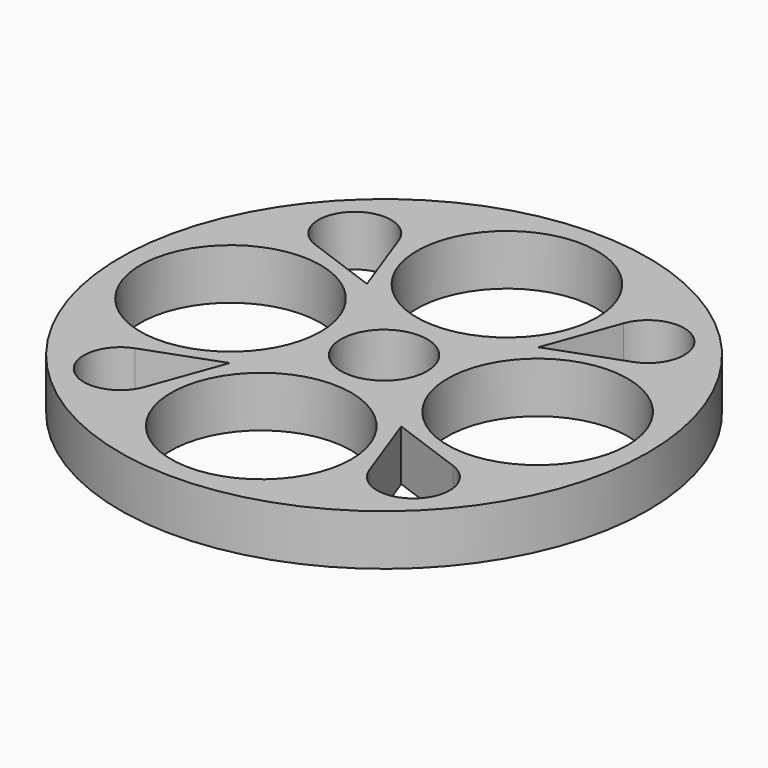
from build123d import *

# Parameters (mm, degrees)
F0_R     = 26
F0_R_2   = 8.875
F0_R_3   = 4.25
F1_DEPTH = 5


with BuildPart() as f1:
    # F0 (on Top) → F1 (new body)
    with BuildSketch(Plane.XY):
        Circle(F0_R)
        with BuildLine():
            ThreePointArc((-11.074626, -15.663465), (-16.970563, -16.970563), (-15.663465, -11.074626))
            Line((-15.663465, -11.074626), (-8.448647, -8.448647))
            Line((-8.448647, -8.448647), (-11.074626, -15.663465))
        make_face(mode=Mode.SUBTRACT)
        with Locations((0, -15.125)):
            Circle(F0_R_2, mode=Mode.SUBTRACT)
        with BuildLine():
            Line((11.074626, -15.663465), (8.448647, -8.448647))
            Line((8.448647, -8.448647), (15.663465, -11.074626))
            ThreePointArc((15.663465, -11.074626), (17.371712, -12.385409), (18.019191, -14.438951))
            ThreePointArc((18.019191, -14.438951), (15.060653, -17.964799), (11.074626, -15.663465))
        make_face(mode=Mode.SUBTRACT)
        with Locations((-15.125, 0)):
            Circle(F0_R_2, mode=Mode.SUBTRACT)
        with BuildLine():
            ThreePointArc((-15.663465, 11.074626), (-16.970563, 16.970563), (-11.074626, 15.663465))
            Line((-11.074626, 15.663465), (-8.448647, 8.448647))
            Line((-8.448647, 8.448647), (-15.663465, 11.074626))
        make_face(mode=Mode.SUBTRACT)
        Circle(F0_R_3, mode=Mode.SUBTRACT)
        with Locations((15.125, 0)):
            Circle(F0_R_2, mode=Mode.SUBTRACT)
        with Locations((0, 15.125)):
            Circle(F0_R_2, mode=Mode.SUBTRACT)
        with BuildLine():
            Line((15.663465, 11.074626), (8.448647, 8.448647))
            Line((8.448647, 8.448647), (11.074626, 15.663465))
            ThreePointArc((11.074626, 15.663465), (15.060653, 17.964799), (18.019191, 14.438951))
            ThreePointArc((18.019191, 14.438951), (17.371712, 12.385409), (15.663465, 11.074626))
        make_face(mode=Mode.SUBTRACT)
    extrude(amount=F1_DEPTH)


solid = f1.part
